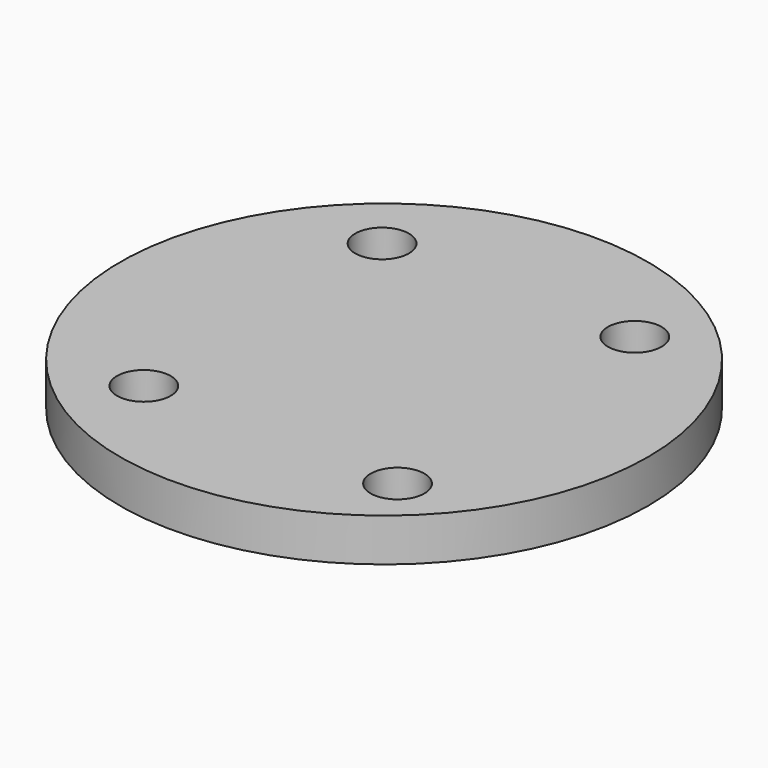
from build123d import *

# Parameters (mm, degrees)
F0_R     = 12.469473319
F2_DEPTH = 2.032
F3_D     = 2.54


with BuildPart() as f2:
    # F0 (on Top) → F2 (new body)
    with BuildSketch(Plane.XY):
        Circle(F0_R)
    extrude(amount=F2_DEPTH)

    # F3 (through all)
    with Locations(Plane(origin=(0, 0, 0), x_dir=(1, 0, 0), z_dir=(0, 0, -1))):
        with Locations((-5.6063276716, 7.1808281355), (6.5757827833, 7.4244700372), (6.0884971172, -7.1940617636), (-5.8499677107, -7.1940617636)):
            Hole(F3_D / 2)


solid = f2.part
